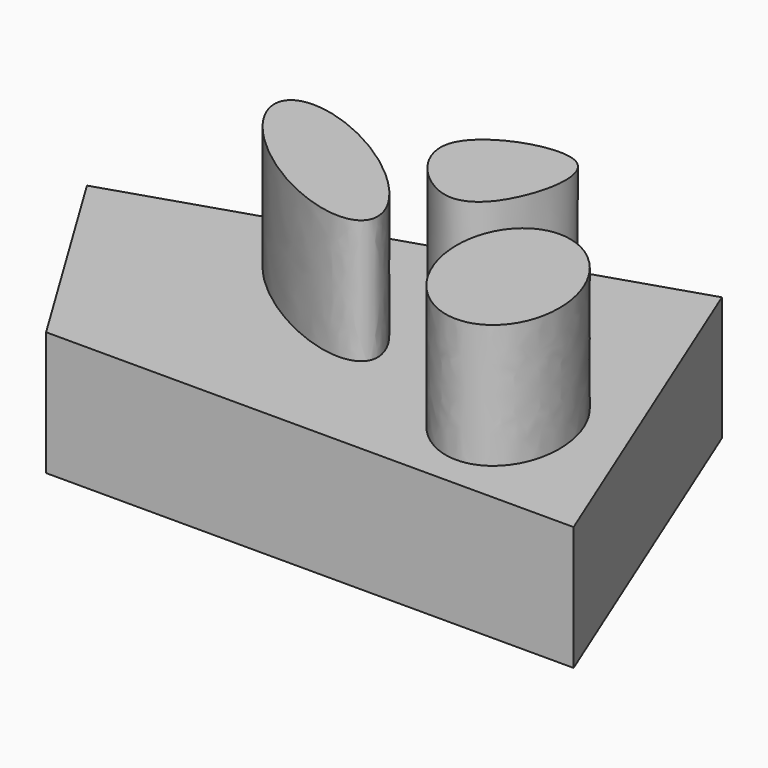
from build123d import *

# Parameters (mm, degrees)
F1_DEPTH      = 25
F3_DEPTH      = 25
F3_DEPTH_BACK = 25


with BuildPart() as f1:
    # F0 (on Top) → F1 (new body)
    with BuildSketch(Plane.XY):
        Polygon((-26.2123253196, 43.0631041527), (0, 0), (106.3471436501, 0), (75.6412819028, 75.7661014795), align=None)
    extrude(amount=F1_DEPTH)

    # F2 (on face) → F3 (join, two sides)
    with BuildSketch(Plane.XY.offset(25)) as f3_sk:
        with BuildLine():
            add(Edge.make_bspline(
                [(45.556306839, 23.9681825042), (53.2193886578, 35.4628028243), (22.7156567618, 47.4969570472), (-7.7880751342, 59.5311112702), (15.052574943, 36.0023367271), (37.8932250202, 12.4735621841), (45.556306839, 23.9681825042)],
                knots=[0, 0, 0, 2.0943951024, 2.0943951024, 4.1887902048, 4.1887902048, 6.2831853072, 6.2831853072, 6.2831853072], degree=2, weights=[1, 0.5, 1, 0.5, 1, 0.5, 1]))
        make_face()
        with BuildLine():
            add(Edge.make_bspline(
                [(80.8722674847, 6.9276154973), (100.923448807, 14.4468075332), (82.0071287483, 34.3958262688), (63.0908086896, 54.3448450044), (61.9559474259, 26.8766342329), (60.8210861623, -0.5915765387), (80.8722674847, 6.9276154973)],
                knots=[0, 0, 0, 2.0943951024, 2.0943951024, 4.1887902048, 4.1887902048, 6.2831853072, 6.2831853072, 6.2831853072], degree=2, weights=[1, 0.5, 1, 0.5, 1, 0.5, 1]))
        make_face()
        with BuildLine():
            add(Edge.make_bspline(
                [(39.382185787, 52.3691289127), (41.2566980192, 58.547487307), (63.281447597, 66.1883041852), (61.3742974292, 45.4461553684), (50.6354141636, 32.9153821054), (37.6476023252, 46.6519732136), (39.382185787, 52.3691289127)],
                knots=[0, 0, 0, 0, 0.2828219324, 0.5152578959, 0.7382901866, 1, 1, 1, 1], degree=3))
        make_face()
    extrude(amount=F3_DEPTH)
    extrude(f3_sk.sketch, amount=-F3_DEPTH_BACK)


solid = f1.part
